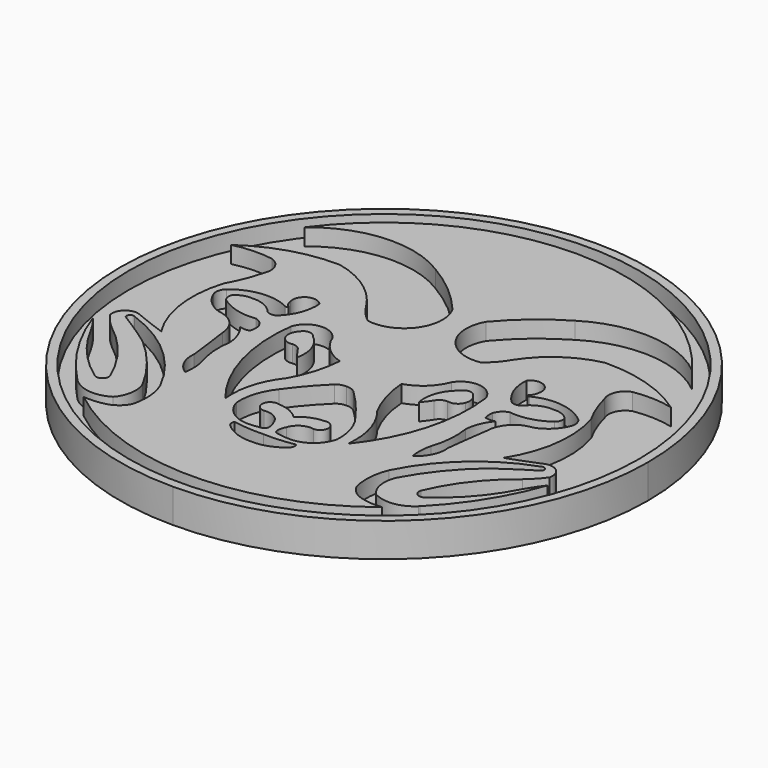
from build123d import *

# Parameters (mm, degrees)
F0_R     = 38.354
F1_DEPTH = 2.54
F2_DEPTH = 5.08


with BuildPart() as f1:
    # F0 (on Top) → F1 (new body)
    with BuildSketch(Plane.XY):
        Circle(F0_R)
        with BuildLine():
            ThreePointArc((0, 36.195), (16.3100407071, 32.3119265463), (29.1205325208, 21.4958742717))
            ThreePointArc((29.1205325208, 21.4958742717), (20.013889451, 25.1532936634), (10.4939714074, 22.7702651173))
            ThreePointArc((10.4939714074, 22.7702651173), (6.2166145089, 19.7455309587), (2.524235053, 16.0291977227))
            ThreePointArc((2.524235053, 16.0291977227), (2.8217203852, 9.9178375579), (8.4683299065, 7.5613525696))
            ThreePointArc((8.4683299065, 7.5613525696), (9.8638436625, 8.8309392005), (10.9707685187, 10.3586912155))
            ThreePointArc((10.9707685187, 10.3586912155), (14.8152003139, 14.3778039413), (19.9045091867, 16.620984301))
            ThreePointArc((19.9045091867, 16.620984301), (26.8115869741, 15.6682618554), (33.070936799, 12.5964637846))
            ThreePointArc((33.070936799, 12.5964637846), (30.1082105962, 13.0191733965), (27.1208900958, 12.8393229097))
            ThreePointArc((27.1208900958, 12.8393229097), (25.6151004937, 11.472747239), (25.6116949022, 9.4392970204))
            ThreePointArc((25.6116949022, 9.4392970204), (26.4445409248, 6.8462228356), (27.6239551604, 4.3912995607))
            ThreePointArc((27.6239551604, 4.3912995607), (28.2293026987, -2.8681971542), (25.7331244648, -9.7118681297))
            ThreePointArc((25.7331244648, -9.7118681297), (28.0947508125, -8.8543141153), (30.4244980216, -7.9135932028))
            ThreePointArc((30.4244980216, -7.9135932028), (32.435895281, -8.2417852274), (33.0632068217, -10.1808337495))
            ThreePointArc((33.0632068217, -10.1808337495), (32.0471294191, -11.4426926229), (30.8768842369, -12.5630619004))
            ThreePointArc((30.8768842369, -12.5630619004), (26.4839018364, -16.932790924), (23.3678352088, -22.2884379327))
            ThreePointArc((23.3678352088, -22.2884379327), (23.7274666482, -23.3411614712), (24.8398724943, -23.33044447))
            ThreePointArc((24.8398724943, -23.33044447), (29.163941036, -19.4018519758), (32.4150808156, -14.5478332415))
            ThreePointArc((32.4150808156, -14.5478332415), (33.24227883, -13.2227487103), (34.1618972561, -11.9600502031))
            ThreePointArc((34.1618972561, -11.9600502031), (30.7110727212, -19.1548437037), (25.767609142, -25.4186613359))
            ThreePointArc((25.767609142, -25.4186613359), (25.6985132436, -25.4897651525), (25.6279753349, -25.5594386722))
            ThreePointArc((25.6279753349, -25.5594386722), (24.0701276233, -27.0315922801), (22.4278718149, -28.4089526533))
            ThreePointArc((22.4278718149, -28.4089526533), (11.8704672131, -34.1931284492), (0, -36.195))
            ThreePointArc((0, -36.195), (-36.195, 0), (0, 36.195))
        make_face(mode=Mode.SUBTRACT)
        with BuildLine():
            ThreePointArc((19.0812405199, -28.1170774251), (20.7408081475, -28.4206493611), (22.4278718149, -28.4089526533))
            ThreePointArc((22.4278718149, -28.4089526533), (24.0701276233, -27.0315922801), (25.6279753349, -25.5594386722))
            ThreePointArc((25.6279753349, -25.5594386722), (22.7983368699, -26.8915371958), (19.7448562831, -26.2150783092))
            ThreePointArc((19.7448562831, -26.2150783092), (18.7357120627, -23.9577803122), (19.0812405199, -21.5094387531))
            ThreePointArc((19.0812405199, -21.5094387531), (22.0966488355, -16.9504833177), (25.898385793, -13.0231995136))
            ThreePointArc((25.898385793, -13.0231995136), (28.5739319238, -11.1641944869), (31.3279703259, -9.4235856086))
            ThreePointArc((31.3279703259, -9.4235856086), (31.2213219609, -8.7591336286), (30.5514652282, -8.694618009))
            ThreePointArc((30.5514652282, -8.694618009), (22.7278482564, -13.3164712856), (17.2220766544, -20.5453708768))
            ThreePointArc((17.2220766544, -20.5453708768), (16.5569341321, -23.3478057404), (16.8304368854, -26.2150783092))
            ThreePointArc((16.8304368854, -26.2150783092), (17.7636323735, -27.3935326017), (19.0812405199, -28.1170774251))
        make_face()
    extrude(amount=F1_DEPTH)



with BuildPart() as f1b:
    # F0 (on Top) → F1, piece 2 (new body)
    with BuildSketch(Plane.XY):
        with BuildLine():
            ThreePointArc((8.9594051242, 1.4988160692), (7.2659205692, -1.0070144821), (4.6416837722, -2.5104964152))
            ThreePointArc((4.6416837722, -2.5104964152), (5.3061323163, -6.2340938743), (6.7619932815, -9.7251021463))
            ThreePointArc((6.7619932815, -9.7251021463), (8.8541728893, -13.7648549791), (9.2292623594, -18.29874143))
            ThreePointArc((9.2292623594, -18.29874143), (13.8842957837, -9.2996598821), (14.6264135838, 0.8048968157))
            ThreePointArc((14.6264135838, 0.8048968157), (12.0154182635, 2.9690129288), (8.9594051242, 1.4988160692))
        make_face()
        with BuildLine():
            ThreePointArc((11.0518196598, 0.4397185403), (12.0922320367, 1.0066512867), (13.0864968523, 0.36220724))
            ThreePointArc((13.0864968523, 0.36220724), (13.5789629566, -0.5562866242), (13.4934317321, -1.594958012))
            ThreePointArc((13.4934317321, -1.594958012), (12.7657672113, -2.4509849655), (11.6525338963, -2.6026074775))
            ThreePointArc((11.6525338963, -2.6026074775), (10.8338555508, -2.8019858579), (10.2573269978, -3.4164781682))
            ThreePointArc((10.2573269978, -3.4164781682), (9.7154365018, -4.1702091318), (9.1527886689, -4.9085742794))
            ThreePointArc((9.1527886689, -4.9085742794), (9.3221389145, -1.9574127476), (11.0518196598, 0.4397185403))
        make_face(mode=Mode.SUBTRACT)
    extrude(amount=F1_DEPTH)


with BuildPart() as f1c:
    # F0 (on Top) → F1, piece 3 (new body)
    with BuildSketch(Plane.XY):
        with BuildLine():
            ThreePointArc((18.1023497134, 4.6450779773), (18.4693375185, 5.0990635977), (18.6217725277, 5.6625762954))
            ThreePointArc((18.6217725277, 5.6625762954), (17.8048174091, 7.7718267537), (15.5823454261, 7.3511470109))
            ThreePointArc((15.5823454261, 7.3511470109), (15.9810773285, 4.4330635419), (17.6086314023, 1.9784218166))
            ThreePointArc((17.6086314023, 1.9784218166), (18.3449359611, 1.7359580479), (19.0812405199, 1.9784218166))
            ThreePointArc((19.0812405199, 1.9784218166), (20.7103981656, 3.2160120104), (22.7288100868, 3.5503732506))
            ThreePointArc((22.7288100868, 3.5503732506), (23.9465806334, 3.3783908326), (24.9827504158, 2.7158991434))
            ThreePointArc((24.9827504158, 2.7158991434), (25.1007386139, 1.9085208713), (24.6644448489, 1.2190075358))
            ThreePointArc((24.6644448489, 1.2190075358), (22.0099704418, -0.0300919099), (19.0812405199, -0.200458715))
            ThreePointArc((19.0812405199, -0.200458715), (18.1498562408, -0.7352680381), (17.6086314023, -1.662938972))
            ThreePointArc((17.6086314023, -1.662938972), (17.579360711, -2.3565659699), (17.7047606558, -3.0393910129))
            ThreePointArc((17.7047606558, -3.0393910129), (18.4489041567, -3.1577185745), (19.1930476576, -3.0393910129))
            ThreePointArc((19.1930476576, -3.0393910129), (18.1489233943, -4.8077172504), (17.7047606558, -6.812684238))
            ThreePointArc((17.7047606558, -6.812684238), (17.8186919766, -9.7789382771), (17.2220766544, -12.6868057996))
            ThreePointArc((17.2220766544, -12.6868057996), (16.9785349247, -14.3430015018), (17.0921012759, -16.0131510347))
            ThreePointArc((17.0921012759, -16.0131510347), (18.689940589, -14.2009048851), (19.0812405199, -11.8167465553))
            ThreePointArc((19.0812405199, -11.8167465553), (19.4792494464, -8.6280761682), (19.9156105518, -5.4444274865))
            ThreePointArc((19.9156105518, -5.4444274865), (21.0165882177, -2.7945065734), (23.5939398408, -1.5329633607))
            ThreePointArc((23.5939398408, -1.5329633607), (25.5559529123, -0.3779526808), (26.8448609859, 1.4988160692))
            ThreePointArc((26.8448609859, 1.4988160692), (26.9581100299, 2.5251612453), (26.4563038945, 3.4276025835))
            ThreePointArc((26.4563038945, 3.4276025835), (22.559294597, 5.1208668874), (18.3743387461, 4.3860403821))
            ThreePointArc((18.3743387461, 4.3860403821), (18.1088254321, 4.3795646634), (18.1023497134, 4.6450779773))
        make_face()
    extrude(amount=F1_DEPTH)


with BuildPart() as f1d:
    # F0 (on Top) → F1, piece 4 (new body)
    with BuildSketch(Plane.XY):
        with BuildLine():
            ThreePointArc((1.4401989756, -7.5464472175), (0.7696226476, -7.1502759806), (0, -7.0306714624))
            Line((0, -7.0306714624), (0, -16.9719606638))
            ThreePointArc((0, -16.9719606638), (1.5871088698, -15.9231580294), (3.4499636386, -15.5375758186))
            ThreePointArc((3.4499636386, -15.5375758186), (4.9636480678, -16.5558298917), (3.729400225, -17.8992263973))
            ThreePointArc((3.729400225, -17.8992263973), (2.0315864664, -18.2127812588), (0.9600873454, -19.5665825158))
            ThreePointArc((0.9600873454, -19.5665825158), (0.7284671983, -20.1226591724), (0.6543090567, -20.7204632461))
            ThreePointArc((0.6543090567, -20.7204632461), (0.7167766477, -21.1389629832), (1.0246522725, -21.429233253))
            ThreePointArc((1.0246522725, -21.429233253), (1.8915019705, -21.5830118043), (2.7684832457, -21.6603428125))
            ThreePointArc((2.7684832457, -21.6603428125), (5.7678994669, -20.8517613545), (7.5377556495, -18.29874143))
            ThreePointArc((7.5377556495, -18.29874143), (7.1826666933, -15.2634418125), (5.7519045658, -12.5630619004))
            ThreePointArc((5.7519045658, -12.5630619004), (3.7081042848, -9.9584470923), (1.4401989756, -7.5464472175))
        make_face()
    extrude(amount=F1_DEPTH)


with BuildPart() as f1e:
    # F0 (on Top) → F1, piece 5 (new body)
    with BuildSketch(Plane.XY):
        with BuildLine():
            Line((0, -22.6163100451), (0, -24.9665156007))
            ThreePointArc((0, -24.9665156007), (2.39351931, -24.5928205049), (4.4611240737, -23.33044447))
            ThreePointArc((4.4611240737, -23.33044447), (4.7324806703, -22.8398525463), (4.6312049963, -22.2884379327))
            ThreePointArc((4.6312049963, -22.2884379327), (2.3245096861, -22.5781883291), (0, -22.6163100451))
        make_face()
    extrude(amount=F1_DEPTH)


with BuildPart() as f1_1:
    add(f1.part)

    add(f1b.part)  # F2 merges F1b

    add(f1c.part)  # F2 merges F1c

    add(f1d.part)  # F2 merges F1d

    add(f1e.part)  # F2 merges F1e
    # F0 (on Top) → F2 (join)
    with BuildSketch(Plane.XY):
        with BuildLine():
            ThreePointArc((0, -39.6875), (28.0633003783, -28.0633003783), (39.6875, 0))
            ThreePointArc((39.6875, 0), (28.0633003291, 28.0633004275), (-1.392e-07, 39.6875))
            ThreePointArc((-1.392e-07, 39.6875), (-28.0633004275, 28.0633003291), (-39.6875, 0))
            ThreePointArc((-39.6875, 0), (-28.0633003783, -28.0633003783), (0, -39.6875))
        make_face()
        Circle(F0_R, mode=Mode.SUBTRACT)
        with BuildLine():
            ThreePointArc((10.4939714074, 22.7702651173), (20.013889451, 25.1532936634), (29.1205325208, 21.4958742717))
            ThreePointArc((29.1205325208, 21.4958742717), (16.3100407071, 32.3119265463), (0, 36.195))
            Line((0, 36.195), (0, 0))
            Line((0, 0), (0, -7.0306714624))
            ThreePointArc((0, -7.0306714624), (0.7696226476, -7.1502759806), (1.4401989756, -7.5464472175))
            ThreePointArc((1.4401989756, -7.5464472175), (3.7081042848, -9.9584470923), (5.7519045658, -12.5630619004))
            ThreePointArc((5.7519045658, -12.5630619004), (7.1826666933, -15.2634418125), (7.5377556495, -18.29874143))
            ThreePointArc((7.5377556495, -18.29874143), (5.7678994669, -20.8517613545), (2.7684832457, -21.6603428125))
            ThreePointArc((2.7684832457, -21.6603428125), (1.8915019705, -21.5830118043), (1.0246522725, -21.429233253))
            ThreePointArc((1.0246522725, -21.429233253), (0.7167766477, -21.1389629832), (0.6543090567, -20.7204632461))
            ThreePointArc((0.6543090567, -20.7204632461), (0.7284671983, -20.1226591724), (0.9600873454, -19.5665825158))
            ThreePointArc((0.9600873454, -19.5665825158), (2.0315864664, -18.2127812588), (3.729400225, -17.8992263973))
            ThreePointArc((3.729400225, -17.8992263973), (4.9636480678, -16.5558298917), (3.4499636386, -15.5375758186))
            ThreePointArc((3.4499636386, -15.5375758186), (1.5871088698, -15.9231580294), (0, -16.9719606638))
            Line((0, -16.9719606638), (0, -22.6163100451))
            ThreePointArc((0, -22.6163100451), (2.3245096861, -22.5781883291), (4.6312049963, -22.2884379327))
            ThreePointArc((4.6312049963, -22.2884379327), (4.7324806703, -22.8398525463), (4.4611240737, -23.33044447))
            ThreePointArc((4.4611240737, -23.33044447), (2.39351931, -24.5928205049), (0, -24.9665156007))
            Line((0, -24.9665156007), (0, -36.195))
            ThreePointArc((0, -36.195), (11.8704672131, -34.1931284492), (22.4278718149, -28.4089526533))
            ThreePointArc((22.4278718149, -28.4089526533), (20.7408081475, -28.4206493611), (19.0812405199, -28.1170774251))
            ThreePointArc((19.0812405199, -28.1170774251), (17.7636323735, -27.3935326017), (16.8304368854, -26.2150783092))
            ThreePointArc((16.8304368854, -26.2150783092), (16.5569341321, -23.3478057404), (17.2220766544, -20.5453708768))
            ThreePointArc((17.2220766544, -20.5453708768), (22.7278482564, -13.3164712856), (30.5514652282, -8.694618009))
            ThreePointArc((30.5514652282, -8.694618009), (31.2213219609, -8.7591336286), (31.3279703259, -9.4235856086))
            ThreePointArc((31.3279703259, -9.4235856086), (28.5739319238, -11.1641944869), (25.898385793, -13.0231995136))
            ThreePointArc((25.898385793, -13.0231995136), (22.0966488355, -16.9504833177), (19.0812405199, -21.5094387531))
            ThreePointArc((19.0812405199, -21.5094387531), (18.7357120627, -23.9577803122), (19.7448562831, -26.2150783092))
            ThreePointArc((19.7448562831, -26.2150783092), (22.7983368699, -26.8915371958), (25.6279753349, -25.5594386722))
            ThreePointArc((25.6279753349, -25.5594386722), (25.6978886388, -25.4891456214), (25.767609142, -25.4186613359))
            ThreePointArc((25.767609142, -25.4186613359), (30.7110727212, -19.1548437037), (34.1618972561, -11.9600502031))
            ThreePointArc((34.1618972561, -11.9600502031), (33.24227883, -13.2227487103), (32.4150808156, -14.5478332415))
            ThreePointArc((32.4150808156, -14.5478332415), (29.163941036, -19.4018519758), (24.8398724943, -23.33044447))
            ThreePointArc((24.8398724943, -23.33044447), (23.7274666482, -23.3411614712), (23.3678352088, -22.2884379327))
            ThreePointArc((23.3678352088, -22.2884379327), (26.4839018364, -16.932790924), (30.8768842369, -12.5630619004))
            ThreePointArc((30.8768842369, -12.5630619004), (32.0471294191, -11.4426926229), (33.0632068217, -10.1808337495))
            ThreePointArc((33.0632068217, -10.1808337495), (32.435895281, -8.2417852274), (30.4244980216, -7.9135932028))
            ThreePointArc((30.4244980216, -7.9135932028), (28.0947508125, -8.8543141153), (25.7331244648, -9.7118681297))
            ThreePointArc((25.7331244648, -9.7118681297), (28.2293026987, -2.8681971542), (27.6239551604, 4.3912995607))
            ThreePointArc((27.6239551604, 4.3912995607), (26.4445409248, 6.8462228356), (25.6116949022, 9.4392970204))
            ThreePointArc((25.6116949022, 9.4392970204), (25.6151004937, 11.472747239), (27.1208900958, 12.8393229097))
            ThreePointArc((27.1208900958, 12.8393229097), (30.1082105962, 13.0191733965), (33.070936799, 12.5964637846))
            ThreePointArc((33.070936799, 12.5964637846), (26.8115869741, 15.6682618554), (19.9045091867, 16.620984301))
            ThreePointArc((19.9045091867, 16.620984301), (14.8152003139, 14.3778039413), (10.9707685187, 10.3586912155))
            ThreePointArc((10.9707685187, 10.3586912155), (9.8638436625, 8.8309392005), (8.4683299065, 7.5613525696))
            ThreePointArc((8.4683299065, 7.5613525696), (2.8217203852, 9.9178375579), (2.524235053, 16.0291977227))
            ThreePointArc((2.524235053, 16.0291977227), (6.2166145089, 19.7455309587), (10.4939714074, 22.7702651173))
        make_face()
        with BuildLine():
            ThreePointArc((6.7619932815, -9.7251021463), (5.3061323163, -6.2340938743), (4.6416837722, -2.5104964152))
            ThreePointArc((4.6416837722, -2.5104964152), (7.2659205692, -1.0070144821), (8.9594051242, 1.4988160692))
            ThreePointArc((8.9594051242, 1.4988160692), (12.0154182635, 2.9690129288), (14.6264135838, 0.8048968157))
            ThreePointArc((14.6264135838, 0.8048968157), (13.8842957837, -9.2996598821), (9.2292623594, -18.29874143))
            ThreePointArc((9.2292623594, -18.29874143), (8.8541728893, -13.7648549791), (6.7619932815, -9.7251021463))
        make_face(mode=Mode.SUBTRACT)
        with BuildLine():
            ThreePointArc((15.5823454261, 7.3511470109), (17.8048174091, 7.7718267537), (18.6217725277, 5.6625762954))
            ThreePointArc((18.6217725277, 5.6625762954), (18.4693375185, 5.0990635977), (18.1023497134, 4.6450779773))
            ThreePointArc((18.1023497134, 4.6450779773), (18.1088254321, 4.3795646634), (18.3743387461, 4.3860403821))
            ThreePointArc((18.3743387461, 4.3860403821), (22.559294597, 5.1208668874), (26.4563038945, 3.4276025835))
            ThreePointArc((26.4563038945, 3.4276025835), (26.9581100299, 2.5251612453), (26.8448609859, 1.4988160692))
            ThreePointArc((26.8448609859, 1.4988160692), (25.5559529123, -0.3779526808), (23.5939398408, -1.5329633607))
            ThreePointArc((23.5939398408, -1.5329633607), (21.0165882177, -2.7945065734), (19.9156105518, -5.4444274865))
            ThreePointArc((19.9156105518, -5.4444274865), (19.4792494464, -8.6280761682), (19.0812405199, -11.8167465553))
            ThreePointArc((19.0812405199, -11.8167465553), (18.689940589, -14.2009048851), (17.0921012759, -16.0131510347))
            ThreePointArc((17.0921012759, -16.0131510347), (16.9785349247, -14.3430015018), (17.2220766544, -12.6868057996))
            ThreePointArc((17.2220766544, -12.6868057996), (17.8186919766, -9.7789382771), (17.7047606558, -6.812684238))
            ThreePointArc((17.7047606558, -6.812684238), (18.1489233943, -4.8077172504), (19.1930476576, -3.0393910129))
            ThreePointArc((19.1930476576, -3.0393910129), (18.4489041567, -3.1577185745), (17.7047606558, -3.0393910129))
            ThreePointArc((17.7047606558, -3.0393910129), (17.579360711, -2.3565659699), (17.6086314023, -1.662938972))
            ThreePointArc((17.6086314023, -1.662938972), (18.1498562408, -0.7352680381), (19.0812405199, -0.200458715))
            ThreePointArc((19.0812405199, -0.200458715), (22.0099704418, -0.0300919099), (24.6644448489, 1.2190075358))
            ThreePointArc((24.6644448489, 1.2190075358), (25.1007386139, 1.9085208713), (24.9827504158, 2.7158991434))
            ThreePointArc((24.9827504158, 2.7158991434), (23.9465806334, 3.3783908326), (22.7288100868, 3.5503732506))
            ThreePointArc((22.7288100868, 3.5503732506), (20.7103981656, 3.2160120104), (19.0812405199, 1.9784218166))
            ThreePointArc((19.0812405199, 1.9784218166), (18.3449359611, 1.7359580479), (17.6086314023, 1.9784218166))
            ThreePointArc((17.6086314023, 1.9784218166), (15.9810773285, 4.4330635419), (15.5823454261, 7.3511470109))
        make_face(mode=Mode.SUBTRACT)
        with BuildLine():
            ThreePointArc((13.4934317321, -1.594958012), (13.5789629566, -0.5562866242), (13.0864968523, 0.36220724))
            ThreePointArc((13.0864968523, 0.36220724), (12.0922320367, 1.0066512867), (11.0518196598, 0.4397185403))
            ThreePointArc((11.0518196598, 0.4397185403), (9.3221389145, -1.9574127476), (9.1527886689, -4.9085742794))
            ThreePointArc((9.1527886689, -4.9085742794), (9.7154365018, -4.1702091318), (10.2573269978, -3.4164781682))
            ThreePointArc((10.2573269978, -3.4164781682), (10.8338555508, -2.8019858579), (11.6525338963, -2.6026074775))
            ThreePointArc((11.6525338963, -2.6026074775), (12.7657672113, -2.4509849655), (13.4934317321, -1.594958012))
        make_face()
    extrude(amount=F2_DEPTH)

    # F3: F1 across plane


with BuildPart() as f1_2:
    add(f1_1.part)
    add(f1_1.part.mirror(Plane.YZ))


solid = f1_2.part
